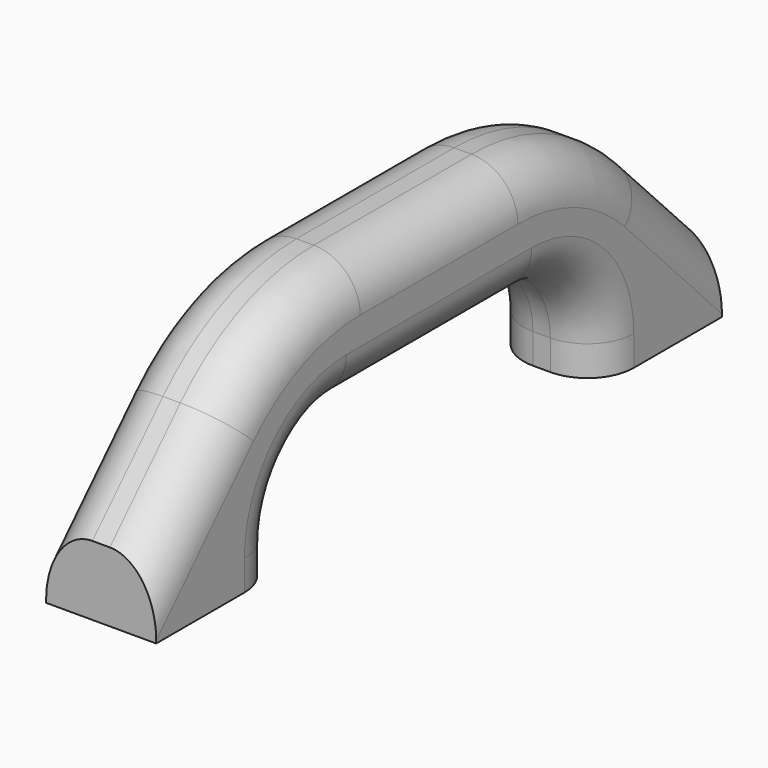
from build123d import *

# Parameters (mm, degrees)
F1_DEPTH      = 15.08125
F1_DEPTH_BACK = 15.08125
F2_R          = 63.5
F3_R          = 22.225
F4_R          = 12.7


with BuildPart() as f1:
    # F0 (on Right) → F1 (new body, two sides)
    with BuildSketch(Plane.YZ) as f1_sk:
        Polygon((0, 19.05), (0, 0), (42.8625, 0), (42.8625, 30.48), (96.8375, 30.48), (150.7998, 30.48), (150.7998, 0), (193.675, 0), (193.675, 19.05), (150.7998, 63.5), (42.8625, 63.5), align=None)
    extrude(amount=F1_DEPTH)
    extrude(f1_sk.sketch, amount=-F1_DEPTH_BACK)

    # F2
    f2_edges = [f1.edges().sort_by_distance(p)[0] for p in [
        (0, 42.8625, 63.5),
        (0, 150.7998, 63.5),
    ]]
    fillet(f2_edges, radius=F2_R)

    # F3
    f3_edges = [f1.edges().sort_by_distance(p)[0] for p in [
        (0, 42.8625, 30.48),
        (0, 150.7998, 30.48),
    ]]
    fillet(f3_edges, radius=F3_R)

    # F4
    f4_edges = [f1.edges().sort_by_distance(p)[0] for p in [
        (15.08125, 96.83115, 30.48),
        (-15.08125, 96.83115, 30.48),
        (-15.08125, 96.833924, 63.5),
        (15.08125, 96.833924, 63.5),
    ]]
    fillet(f4_edges, radius=F4_R)


solid = f1.part
